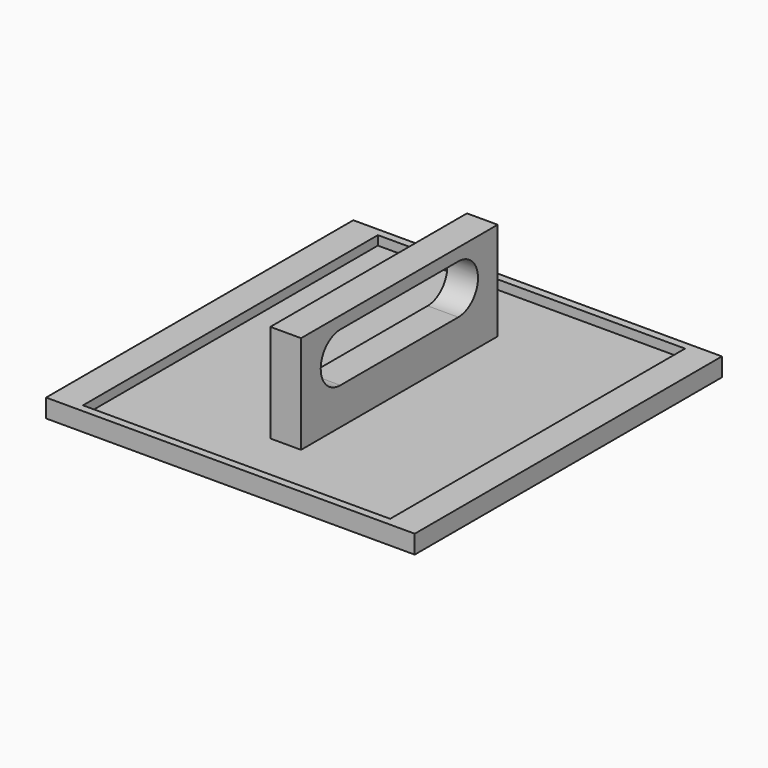
from build123d import *

# Parameters (mm, degrees)
F0_W     = 76.2
F0_H     = 79.375
F1_DEPTH = 3.81
F2_W     = 63.5
F2_H     = 76.2
F3_DEPTH = 1.905
F4_W     = 6.35
F4_H     = 50.8
F5_DEPTH = 25.4
F7_DEPTH = 25.4
F8_W     = 50.8
F8_H     = 5.08
F9_DEPTH = 25.4


with BuildPart() as f1:
    # F0 (on Top) → F1 (new body)
    with BuildSketch(Plane.XY):
        Rectangle(F0_W, F0_H)
    extrude(amount=F1_DEPTH)

    # F2 (on face) → F3 (cut)
    with BuildSketch(Plane.XY.offset(3.81)):
        Rectangle(F2_W, F2_H)
    extrude(amount=-F3_DEPTH, mode=Mode.SUBTRACT)

    # F4 (on face) → F5 (join)
    with BuildSketch(Plane.XY.offset(1.905)):
        Rectangle(F4_W, F4_H)
    extrude(amount=F5_DEPTH)

    # F6 (on face) → F7 (cut)
    with BuildSketch(Plane.YZ.offset(3.175)):
        with BuildLine():
            ThreePointArc((15.24, 9.525), (20.32, 14.605), (15.24, 19.685))
            Line((15.24, 19.685), (-15.24, 19.685))
            ThreePointArc((-15.24, 19.685), (-20.32, 14.605), (-15.24, 9.525))
            Line((-15.24, 9.525), (15.24, 9.525))
        make_face()
    extrude(amount=-F7_DEPTH, mode=Mode.SUBTRACT)

    # F8 (on face) → F9 (cut)
    with BuildSketch(Plane.YZ.offset(3.175)):
        with Locations((0, 24.765)):
            Rectangle(F8_W, F8_H)
    extrude(amount=-F9_DEPTH, mode=Mode.SUBTRACT)


solid = f1.part
